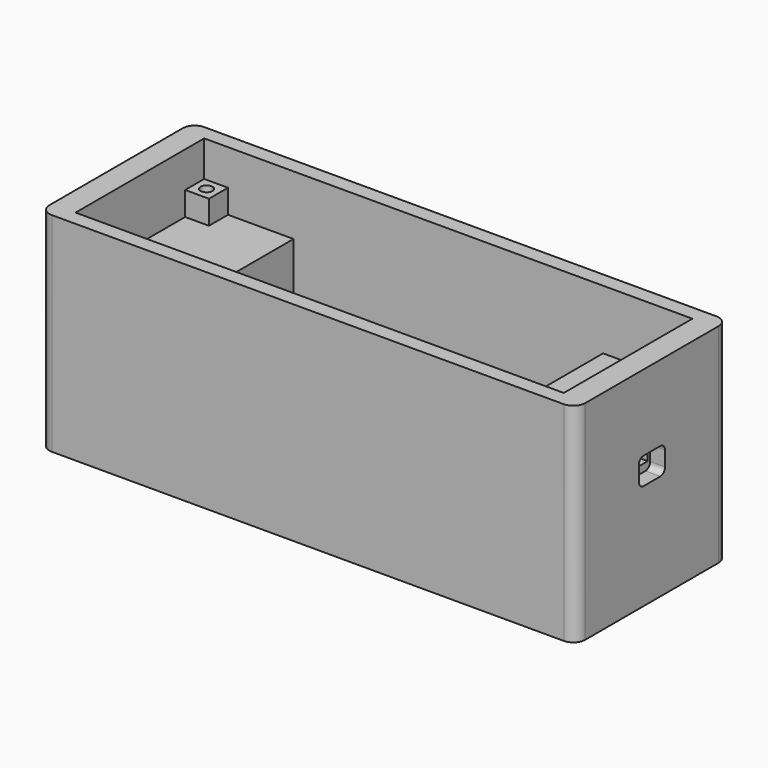
from build123d import *

# Parameters (mm, degrees)
BOX_W           = 90
BOX_H           = 32
BOX_DEPTH       = 35
SKETCH_W        = 82
SKETCH_H        = 27
POCKET_DEPTH    = 30
SKETCH001_W     = 15
SKETCH001_H     = 27
PAD_DEPTH       = 20
SKETCH002_W     = 4
SKETCH002_H     = 4
PAD001_DEPTH    = 4
SKETCH003_W     = 2
SKETCH003_H     = 5
POCKET001_DEPTH = 6
SKETCH004_W     = 4.5
SKETCH004_H     = 2
POCKET002_DEPTH = 13
SKETCH005_W     = 5.5
SKETCH005_H     = 4.5
POCKET003_DEPTH = 2.5
FILLET_R        = 1
SKETCH006_R     = 1
POCKET004_DEPTH = 12
FILLET001_R     = 2


with BuildPart() as part:
    # Box → Box (new body)
    with BuildSketch(Plane.XY):
        with Locations((45, 16)):
            Rectangle(BOX_W, BOX_H)
    extrude(amount=BOX_DEPTH)

    # Sketch (on Face6 of BaseFeature) → Pocket (cut)
    with BuildSketch(Plane.XY.offset(35)):
        with Locations((45, 16)):
            Rectangle(SKETCH_W, SKETCH_H)
    extrude(amount=-POCKET_DEPTH, mode=Mode.SUBTRACT)

    # Sketch001 (on Face11 of Pocket) → Pad (join)
    with BuildSketch(Plane.XY.offset(5)):
        with Locations((11.5, 16)):
            Rectangle(SKETCH001_W, SKETCH001_H)
        with Locations((78.5, 16)):
            Rectangle(SKETCH001_W, SKETCH001_H)
    extrude(amount=PAD_DEPTH)

    # Sketch002 (on Face11 of Pad) → Pad001 (join)
    with BuildSketch(Plane.XY.offset(25)):
        with Locations((6, 27.5)):
            Rectangle(SKETCH002_W, SKETCH002_H)
        with Locations((6, 4.5)):
            Rectangle(SKETCH002_W, SKETCH002_H)
        with Locations((84, 27.5)):
            Rectangle(SKETCH002_W, SKETCH002_H)
        with Locations((84, 4.5)):
            Rectangle(SKETCH002_W, SKETCH002_H)
    extrude(amount=PAD001_DEPTH)

    # Sketch003 (on Face20 of Pad001) → Pocket001 (cut)
    with BuildSketch(Plane.XY.offset(25)):
        with Locations((76.5, 16)):
            Rectangle(SKETCH003_W, SKETCH003_H)
    extrude(amount=-POCKET001_DEPTH, mode=Mode.SUBTRACT)

    # Sketch004 (on Face6 of Pocket001) → Pocket002 (cut)
    with BuildSketch(Plane.YZ.offset(90)):
        with Locations((16, 20)):
            Rectangle(SKETCH004_W, SKETCH004_H)
    extrude(amount=-POCKET002_DEPTH, mode=Mode.SUBTRACT)

    # Sketch005 (on Face6 of Pocket002) → Pocket003 (cut)
    with BuildSketch(Plane.YZ.offset(90)):
        with Locations((16, 20)):
            Rectangle(SKETCH005_W, SKETCH005_H)
    extrude(amount=-POCKET003_DEPTH, mode=Mode.SUBTRACT)

    # Fillet
    fillet_edges = [part.edges().sort_by_distance(p)[0] for p in [
        (88.75, 13.25, 22.25),
        (88.75, 18.75, 22.25),
        (88.75, 13.25, 17.75),
        (88.75, 18.75, 17.75),
    ]]
    fillet(fillet_edges, radius=FILLET_R)

    # Sketch006 (on Face38 of Fillet) → Pocket004 (cut)
    with BuildSketch(Plane.XY.offset(29)):
        with Locations((84, 27.5)):
            Circle(SKETCH006_R)
        with Locations((84, 4.5)):
            Circle(SKETCH006_R)
        with Locations((6, 27.5)):
            Circle(SKETCH006_R)
        with Locations((6, 4.5)):
            Circle(SKETCH006_R)
    extrude(amount=-POCKET004_DEPTH, mode=Mode.SUBTRACT)

    # Fillet001
    fillet001_edges = [part.edges().sort_by_distance(p)[0] for p in [
        (0, 0, 17.5),
        (90, 0, 17.5),
        (90, 32, 17.5),
        (0, 32, 17.5),
    ]]
    fillet(fillet001_edges, radius=FILLET001_R)


solid = part.part
